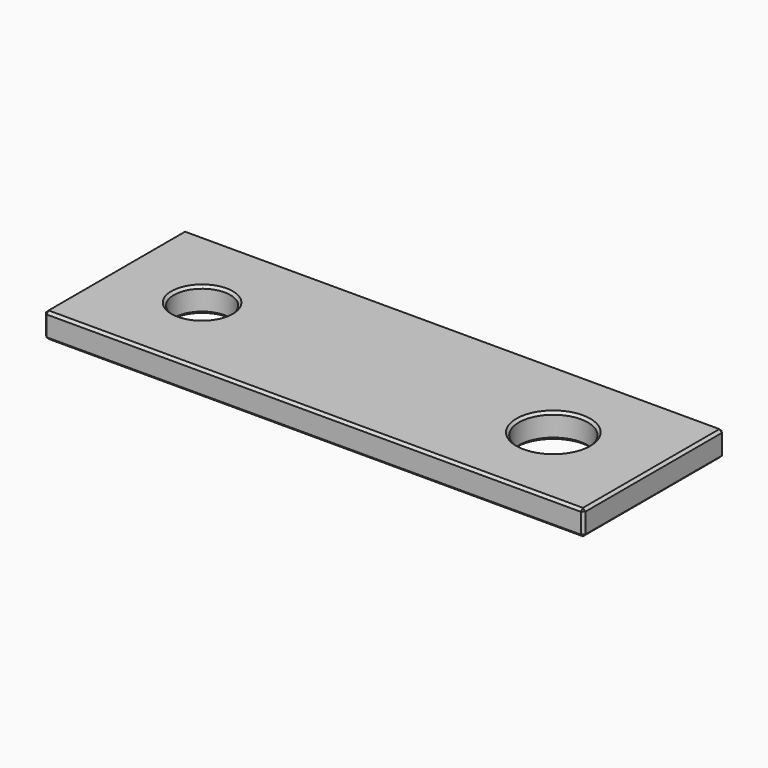
from build123d import *

# Parameters (mm, degrees)
F0_W     = 136.525
F0_H     = 44.45
F0_R     = 7.14375
F0_R_2   = 8.73125
F1_DEPTH = 6.35
F2_SIZE  = 0.635


with BuildPart() as f1:
    # F0 (on Top) → F1 (new body)
    with BuildSketch(Plane.XY):
        Rectangle(F0_W, F0_H)
        with Locations((-46.0375, 0)):
            Circle(F0_R, mode=Mode.SUBTRACT)
        with Locations((42.8625, 0)):
            Circle(F0_R_2, mode=Mode.SUBTRACT)
    extrude(amount=F1_DEPTH)

    # F2
    f2_edges = [f1.edges().sort_by_distance(p)[0] for p in [
        (-68.2625, -22.225, 3.175),
        (68.2625, -22.225, 3.175),
        (0, -22.225, 0),
        (0, -22.225, 6.35),
        (68.2625, 0, 6.35),
        (68.2625, 0, 0),
        (68.2625, 22.225, 3.175),
        (-68.2625, 22.225, 3.175),
        (0, 22.225, 0),
        (0, 22.225, 6.35),
        (34.13125, 0, 6.35),
        (-53.18125, 0, 6.35),
        (-68.2625, 0, 0),
        (-68.2625, 0, 6.35),
        (-53.18125, 0, 0),
        (34.13125, 0, 0),
    ]]
    chamfer(f2_edges, length=F2_SIZE)


solid = f1.part
